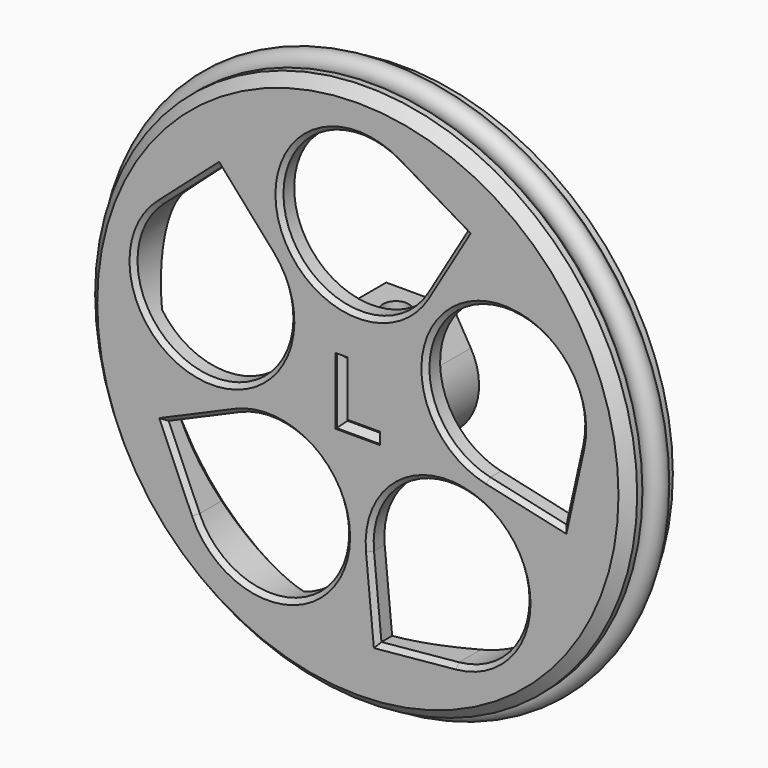
from build123d import *

# Parameters (mm, degrees)
PAD_DEPTH            = 8
CHAMFER_SIZE         = 2
SKETCH002_R          = 2.6
POCKET_DEPTH         = 1.6
SKETCH003_R          = 1.7
POCKET001_DEPTH      = 8
POCKET002_DEPTH      = 1.175
POCKET006_DEPTH      = 209.921216
POCKET006_DEPTH_BACK = 215.521216
POLARPATTERN_COUNT   = 5
CHAMFER002_SIZE      = 0.6
POCKET007_DEPTH      = 1
CHAMFER006_SIZE      = 0.7999
TORUS_R              = 1.5


with BuildPart() as body_wheel_left:
    # Sketch → Revolution (revolve)
    with BuildSketch(Plane.XY):
        with BuildLine():
            Line((0, -2), (28.3, -2))
            Line((28.3, -2), (33.3, 3))
            Line((33.3, 3), (36.5, 3))
            Line((36.5, 3), (36.5, 2.12132))
            Line((36.5, 2.12132), (35.43934, 1.06066))
            ThreePointArc((35.43934, 1.06066), (35, 0), (35.43934, -1.06066))
            Line((35.43934, -1.06066), (36.5, -2.12132))
            Line((36.5, -2.12132), (36.5, -3))
            Line((36.5, -3), (35.1, -4.4))
            Line((35.1, -4.4), (0, -4.4))
            Line((0, -4.4), (0, -2))
        make_face()
    revolve(axis=Axis((0, 0, 0), (0, 1, 0)))

    # Sketch001 (on Face1 of Revolution) → Pad (new body)
    with BuildSketch(Plane(origin=(0, -2, 0), x_dir=(-1, 0, 0), z_dir=(0, 1, 0))):
        with BuildLine():
            Line((4.5, 8.125), (-4.5, 8.125))
            Line((-4.5, 8.125), (-6.893963, 4.058728))
            ThreePointArc((-6.893963, 4.058728), (0, -8), (6.893963, 4.058728))
            Line((6.893963, 4.058728), (4.5, 8.125))
        make_face()
        with BuildLine():
            Line((-2.04939, 1.6), (2.04939, 1.6))
            ThreePointArc((2.04939, -1.6), (2.6, 0), (2.04939, 1.6))
            Line((-2.04939, -1.6), (2.04939, -1.6))
            ThreePointArc((-2.04939, 1.6), (-2.6, 0), (-2.04939, -1.6))
        make_face(mode=Mode.SUBTRACT)
    extrude(amount=PAD_DEPTH)

    # Chamfer
    chamfer_edges = [body_wheel_left.edges().sort_by_distance(p)[0] for p in [
        (0, -2, -8),
    ]]
    chamfer(chamfer_edges, length=CHAMFER_SIZE)

    # Sketch002 (on Face8 of Chamfer) → Pocket (cut)
    with BuildSketch(Plane(origin=(0, 6, 0), x_dir=(-1, 0, 0), z_dir=(0, 1, 0))):
        Circle(SKETCH002_R)
    extrude(amount=-POCKET_DEPTH, mode=Mode.SUBTRACT)

    # Sketch003 (on Face8 of Pocket) → Pocket001 (cut)
    with BuildSketch(Plane.XY.offset(8.125)):
        with Locations((0, 2)):
            Circle(SKETCH003_R)
    extrude(amount=-POCKET001_DEPTH, mode=Mode.SUBTRACT)

    # Sketch004 (on Face9 of Pocket001) → Pocket002 (cut, symmetric)
    with BuildSketch(Plane.XY.offset(5.3875)):
        Polygon((-2.78125, 0.005755), (-2.78125, 6.005755), (2.78125, 6.005755), (2.78125, 0.005755), (0, -1.6), align=None)
    extrude(amount=POCKET002_DEPTH, both=True, mode=Mode.SUBTRACT)

    # Sketch009 (on Face1 of Clone) → Pocket006 (cut, two sides)
    with BuildSketch(Plane(origin=(0, -2, 0), x_dir=(-1, 0, 0), z_dir=(0, 1, 0))) as pocket006_sk:
        with BuildLine():
            ThreePointArc((-9.043783, 15.33134), (10.167187, 18.043478), (-5.334791, 29.709914))
            Line((-5.334791, 29.709914), (-14.378574, 24.375123))
            Line((-14.378574, 24.375123), (-9.043783, 15.33134))
        make_face()
    pocket006 = extrude(amount=-POCKET006_DEPTH, mode=Mode.SUBTRACT) + extrude(pocket006_sk.sketch, amount=POCKET006_DEPTH_BACK, mode=Mode.SUBTRACT)

    # PolarPattern: Pocket006 ×5 about axis
    polarpattern_axis = Axis((0, -2, 0), (0, 1, 0))
    for i in range(1, POLARPATTERN_COUNT):
        add(pocket006.rotate(polarpattern_axis, i * 360 / POLARPATTERN_COUNT), mode=Mode.SUBTRACT)

    # Chamfer002
    chamfer002_edges = [body_wheel_left.edges().sort_by_distance(p)[0] for p in [
        (-20.302201, -4.4, -4.093828),
        (-10.167187, -4.4, 18.043478),
        (14.018534, -4.4, 15.245311),
        (18.831118, -4.4, -8.621358),
        (-2.380263, -4.4, -20.573603),
    ]]
    chamfer(chamfer002_edges, length=CHAMFER002_SIZE)

    # Sketch008 (on Face9 of Chamfer002) → Pocket007 (cut)
    with BuildSketch(Plane.XZ.offset(4.4)):
        Polygon((-3, -4.5), (-3, 4.5), (-1.4, 4.5), (-1.4, -2.9), (3, -2.9), (3, -4.5), align=None)
    extrude(amount=-POCKET007_DEPTH, mode=Mode.SUBTRACT)

    # Chamfer006
    chamfer006_edges = [body_wheel_left.edges().sort_by_distance(p)[0] for p in [
        (-3, -3.4, 0),
        (-2.2, -3.4, 4.5),
        (-1.4, -3.4, 0.8),
        (0.8, -3.4, -2.9),
        (3, -3.4, -3.7),
        (0, -3.4, -4.5),
    ]]
    chamfer(chamfer006_edges, length=CHAMFER006_SIZE)


with BuildPart() as o_ring_l:
    # Torus → Torus (revolve)
    with BuildSketch(Plane(origin=(0, 0, 0), x_dir=(1, 0, 0), z_dir=(0, 0, -1))):
        with Locations((36.5, 0)):
            Circle(TORUS_R)
    revolve(axis=Axis((0, 0, 0), (0, -1, 0)))


solid = Compound([body_wheel_left.part, o_ring_l.part])
